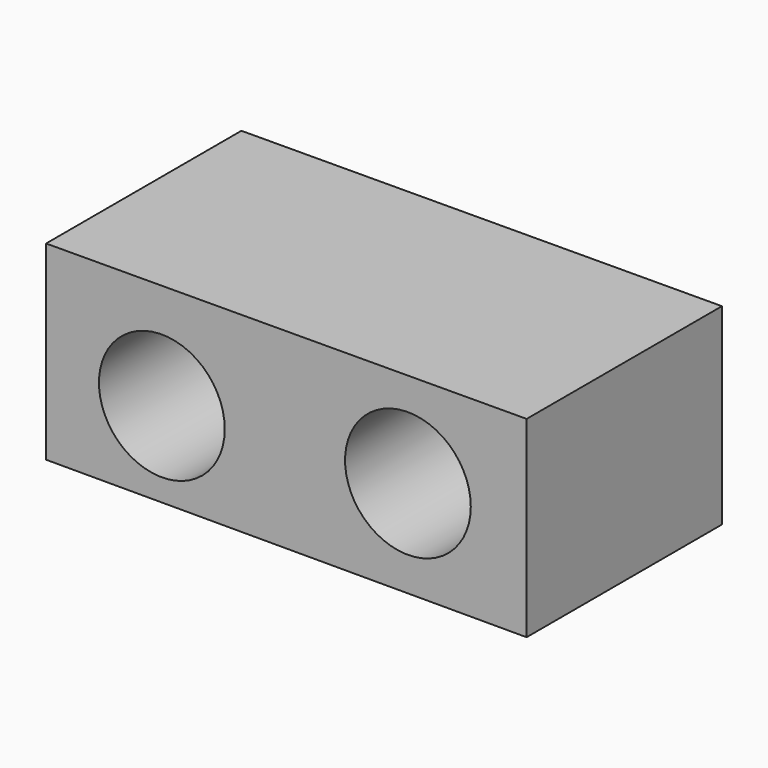
from build123d import *

# Parameters (mm, degrees)
F0_R     = 6.544333
F0_R_2   = 6.5405
F1_DEPTH = 25.4
F2_DEPTH = 25.4


with BuildPart() as f1:
    # F0 (on Front) → F1 (new body)
    with BuildSketch(Plane.XZ):
        Polygon((28.962216, 3.225733), (-21.037417, 3.034164), (-21.037417, -16.774267), (28.962216, -16.774267), align=None)
        with Locations((-8.991601, -7.9248)):
            Circle(F0_R, mode=Mode.SUBTRACT)
        with Locations((16.611602, -6.7056)):
            Circle(F0_R_2, mode=Mode.SUBTRACT)
    extrude(amount=F1_DEPTH)

    # F0 (on Front) → F2 (join)
    with BuildSketch(Plane.XZ):
        Polygon((28.962216, 3.225733), (-21.037417, 3.034164), (-21.037417, -16.774267), (28.962216, -16.774267), align=None)
        with Locations((-8.991601, -7.9248)):
            Circle(F0_R, mode=Mode.SUBTRACT)
        with Locations((16.611602, -6.7056)):
            Circle(F0_R_2, mode=Mode.SUBTRACT)
    extrude(amount=F2_DEPTH)


solid = f1.part
